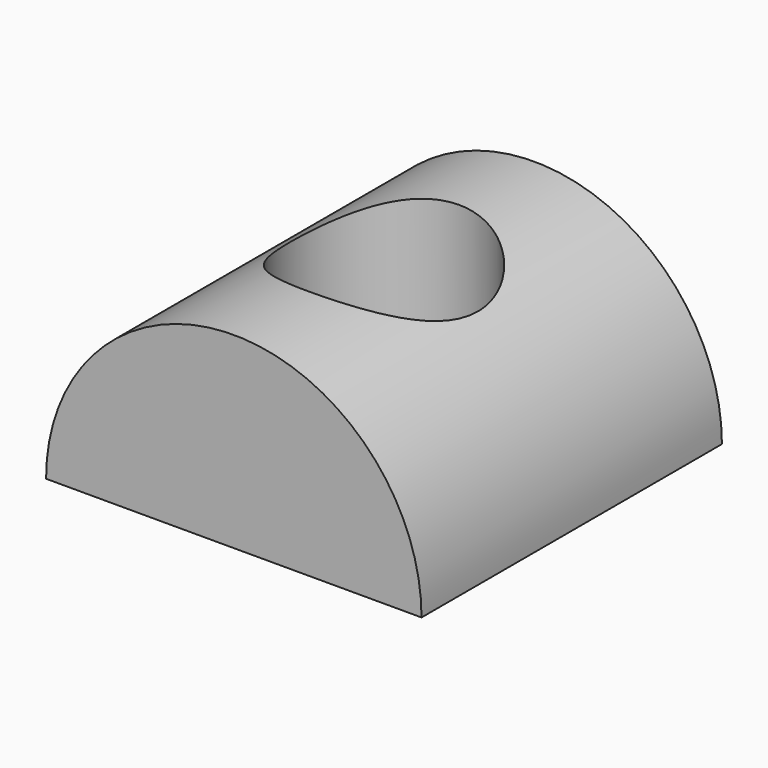
from build123d import *

# Parameters (mm, degrees)
F1_DEPTH = 42.8752
F2_R     = 10.7188
F3_DEPTH = 21.4386


with BuildPart() as f1:
    # F0 (on Front) → F1 (new body)
    with BuildSketch(Plane.XZ):
        with BuildLine():
            Line((-21.4376, 0), (21.4376, 0))
            ThreePointArc((21.4376, 0), (0, 21.4376), (-21.4376, 0))
        make_face()
    extrude(amount=F1_DEPTH)

    # F2 (on face) → F3 (cut, through all)
    with BuildSketch(Plane(origin=(0, 0, 0), x_dir=(1, 0, 0), z_dir=(0, 0, -1))):
        with Locations((0, 21.4376)):
            Circle(F2_R)
    extrude(amount=-F3_DEPTH, mode=Mode.SUBTRACT)


solid = f1.part
